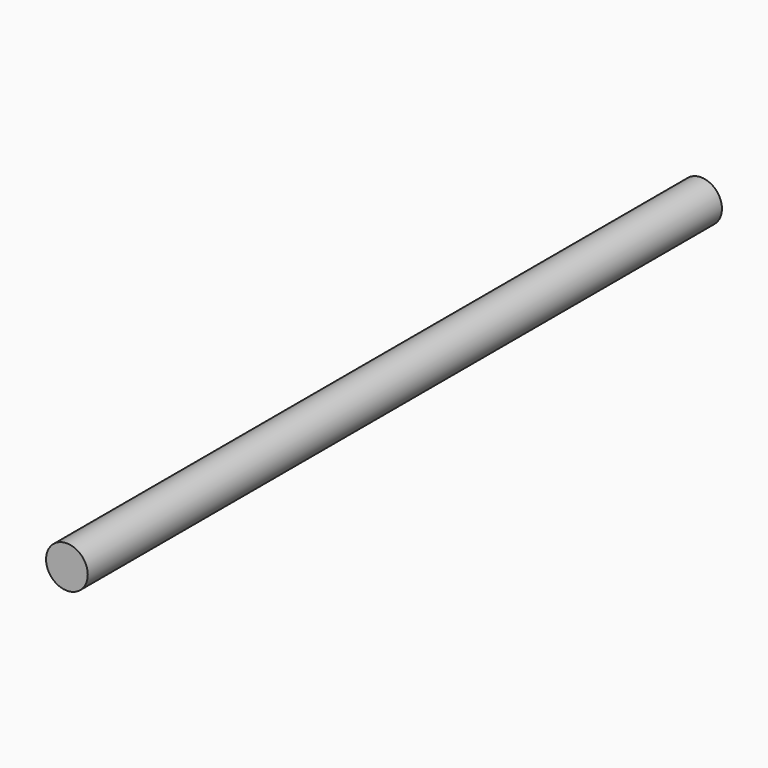
from build123d import *

# Parameters (mm, degrees)
SKETCH_R  = 4
PAD_DEPTH = 152


with BuildPart() as part:
    # Sketch → Pad (new body)
    with BuildSketch(Plane.XZ):
        Circle(SKETCH_R)
    extrude(amount=PAD_DEPTH)


solid = part.part
